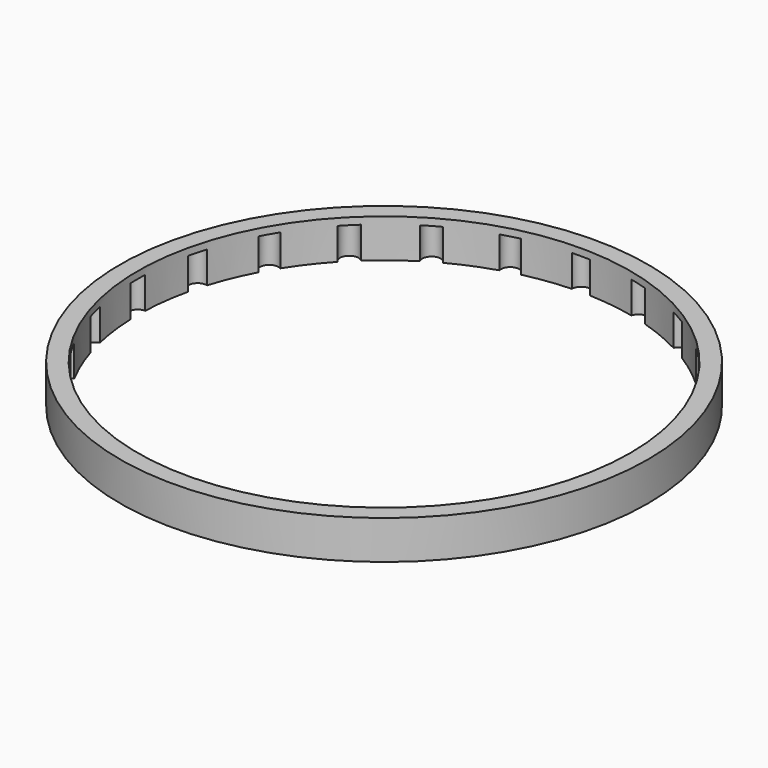
from build123d import *

# Parameters (mm, degrees)
CYLINDER001_R                    = 2.6
CYLINDER001_DEPTH                = 9
CYLINDER001002001_R              = 2.6
CYLINDER001002001_DEPTH          = 9
CYLINDER001002001001_R           = 2.6
CYLINDER001002001001_DEPTH       = 9
CYLINDER001002001001001_R        = 2.6
CYLINDER001002001001001_DEPTH    = 9
CYLINDER001002001001001001_R     = 2.6
CYLINDER001002001001001001_DEPTH = 9
CYLINDER001002_R                 = 2.6
CYLINDER001002_DEPTH             = 9
CYLINDER001001_R                 = 2.6
CYLINDER001001_DEPTH             = 9
CYLINDER_R                       = 70
CYLINDER_DEPTH                   = 20
CYLINDER002_R                    = 75
CYLINDER002_DEPTH                = 11


with BuildPart() as pole1:
    # Cylinder001 → Cylinder001 (new body)
    with BuildSketch(Plane(origin=(70, 0, 0), x_dir=(1, 0, 0), z_dir=(0, 0, 1))):
        Circle(CYLINDER001_R)
    extrude(amount=CYLINDER001_DEPTH)


with BuildPart() as pole2:
    # Cylinder001002001 → Cylinder001002001 (new body)
    with BuildSketch(Plane(origin=(67.55, 18.2, 0), x_dir=(1, 0, 0), z_dir=(0, 0, 1))):
        Circle(CYLINDER001002001_R)
    extrude(amount=CYLINDER001002001_DEPTH)


with BuildPart() as pole003:
    # Cylinder001002001001 → Cylinder001002001001 (new body)
    with BuildSketch(Plane(origin=(60.62, 35, 0), x_dir=(1, 0, 0), z_dir=(0, 0, 1))):
        Circle(CYLINDER001002001001_R)
    extrude(amount=CYLINDER001002001001_DEPTH)


with BuildPart() as pole004:
    # Cylinder001002001001001 → Cylinder001002001001001 (new body)
    with BuildSketch(Plane(origin=(49.49, 49.49, 0), x_dir=(1, 0, 0), z_dir=(0, 0, 1))):
        Circle(CYLINDER001002001001001_R)
    extrude(amount=CYLINDER001002001001001_DEPTH)


with BuildPart() as pole005:
    # Cylinder001002001001001001 → Cylinder001002001001001001 (new body)
    with BuildSketch(Plane(origin=(35, 60.62, 0), x_dir=(1, 0, 0), z_dir=(0, 0, 1))):
        Circle(CYLINDER001002001001001001_R)
    extrude(amount=CYLINDER001002001001001001_DEPTH)


with BuildPart() as pole006:
    # Cylinder001002 → Cylinder001002 (new body)
    with BuildSketch(Plane(origin=(18.2, 67.55, 0), x_dir=(1, 0, 0), z_dir=(0, 0, 1))):
        Circle(CYLINDER001002_R)
    extrude(amount=CYLINDER001002_DEPTH)


with BuildPart() as fusion:
    # Cylinder001001 → Cylinder001001 (new body)
    with BuildSketch(Plane(origin=(0, 70, 0), x_dir=(1, 0, 0), z_dir=(0, 0, 1))):
        Circle(CYLINDER001001_R)
    extrude(amount=CYLINDER001001_DEPTH)

    # Fusion: union pole1, pole2, pole003, pole004, pole005, pole006
    add(pole1.part)
    add(pole2.part)
    add(pole003.part)
    add(pole004.part)
    add(pole005.part)
    add(pole006.part)


with BuildPart() as part_mirroring:
    # Part__Mirroring: instance of Fusion
    add(fusion.part.mirror(Plane(origin=(0, 0, 0), x_dir=(1, 0, 0), z_dir=(0, 1, 0))))


with BuildPart() as part_mirroring001:
    # Part__Mirroring001: instance of Part__Mirroring
    add(part_mirroring.part.mirror(Plane(origin=(0, 0, 0), x_dir=(0, -1, 0), z_dir=(1, 0, 0))))


with BuildPart() as part_mirroring002:
    # Part__Mirroring002: instance of Part__Mirroring001
    add(part_mirroring001.part.mirror(Plane(origin=(0, 0, 0), x_dir=(1, 0, 0), z_dir=(0, 1, 0))))


with BuildPart() as fusion001:
    # Fusion001 base: copy of Fusion
    add(fusion.part)

    # Fusion001: union Part__Mirroring, Part__Mirroring001, Part__Mirroring002
    add(part_mirroring.part)
    add(part_mirroring001.part)
    add(part_mirroring002.part)


with BuildPart() as cylinder:
    # Cylinder → Cylinder (new body)
    with BuildSketch(Plane.XY):
        Circle(CYLINDER_R)
    extrude(amount=CYLINDER_DEPTH)


with BuildPart() as cut001:
    # Cylinder002 → Cylinder002 (new body)
    with BuildSketch(Plane.XY):
        Circle(CYLINDER002_R)
    extrude(amount=CYLINDER002_DEPTH)

    # Cut: cut Cylinder
    add(cylinder.part, mode=Mode.SUBTRACT)

    # Cut001: cut Fusion001
    add(fusion001.part, mode=Mode.SUBTRACT)


solid = cut001.part
